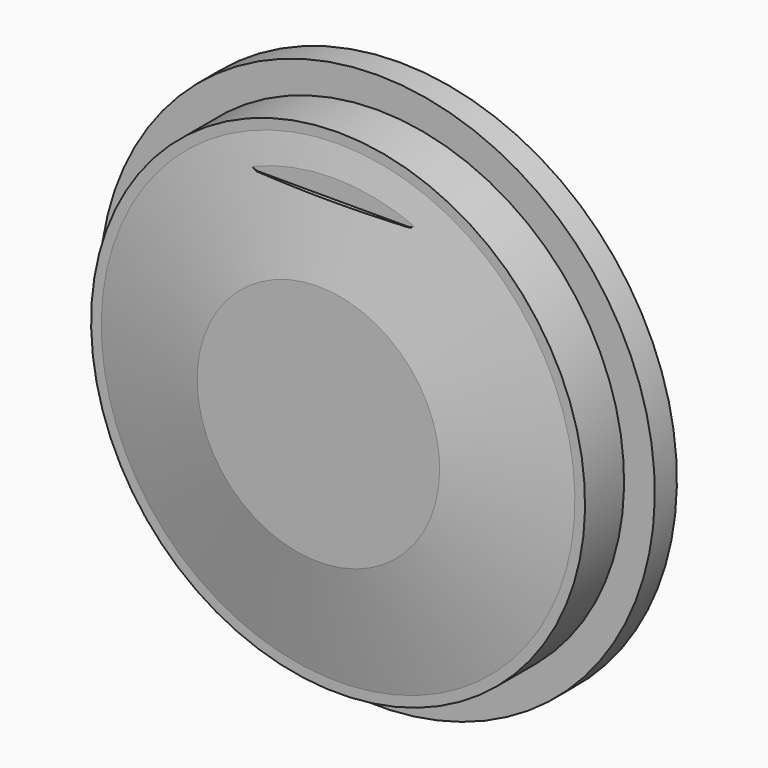
from build123d import *

# Parameters (mm, degrees)
F4_DEPTH = 19.3304


with BuildPart() as f1:
    # F0 (on Right) → F1 (revolve)
    with BuildSketch(Plane.YZ):
        with BuildLine():
            Line((123.1392, 241.1603), (116.679401, 252.349))
            Line((116.679401, 252.349), (104.4702, 252.349))
            Line((104.4702, 252.349), (104.4702, 287.274))
            Line((104.4702, 287.274), (75.8952, 287.274))
            Line((75.8952, 287.274), (75.8952, 255.524))
            Line((75.8952, 255.524), (25.4, 255.524))
            Line((25.4, 255.524), (25.4, 245.0338))
            Line((25.4, 245.0338), (0, 125.476))
            Line((0, 125.476), (0, 0))
            Line((0, 0), (50.8, 0))
            Line((50.8, 0), (50.8, 221.123768))
            ThreePointArc((50.8, 221.123768), (51.283365, 223.553808), (52.659872, 225.613896))
            Line((52.659872, 225.613896), (62.430488, 235.384512))
            ThreePointArc((62.430488, 235.384512), (70.670841, 240.89054), (80.391, 242.824))
            Line((80.391, 242.824), (98.440942, 242.824))
            Line((98.440942, 242.824), (110.3376, 239.6363))
            Line((110.3376, 239.6363), (123.1392, 239.6363))
            Line((123.1392, 239.6363), (123.1392, 241.1603))
        make_face()
    revolve(axis=Axis((0, 61.5696, 0), (0, 1, 0)))

    # F3 (on offset) → F4 (cut, through all)
    with BuildSketch(Plane(origin=(0, 19.3294, 0), x_dir=(-1, 0, 0), z_dir=(0, 1, 0))):
        with BuildLine():
            Line((-77.1779, 197.1167), (77.1779, 197.1167))
            ThreePointArc((77.1779, 197.1167), (87.122, 207.0608), (77.1779, 217.0049))
            Line((77.1779, 217.0049), (-77.1779, 217.0049))
            ThreePointArc((-77.1779, 217.0049), (-87.122, 207.0608), (-77.1779, 197.1167))
        make_face()
    extrude(amount=-F4_DEPTH, mode=Mode.SUBTRACT)


solid = f1.part
